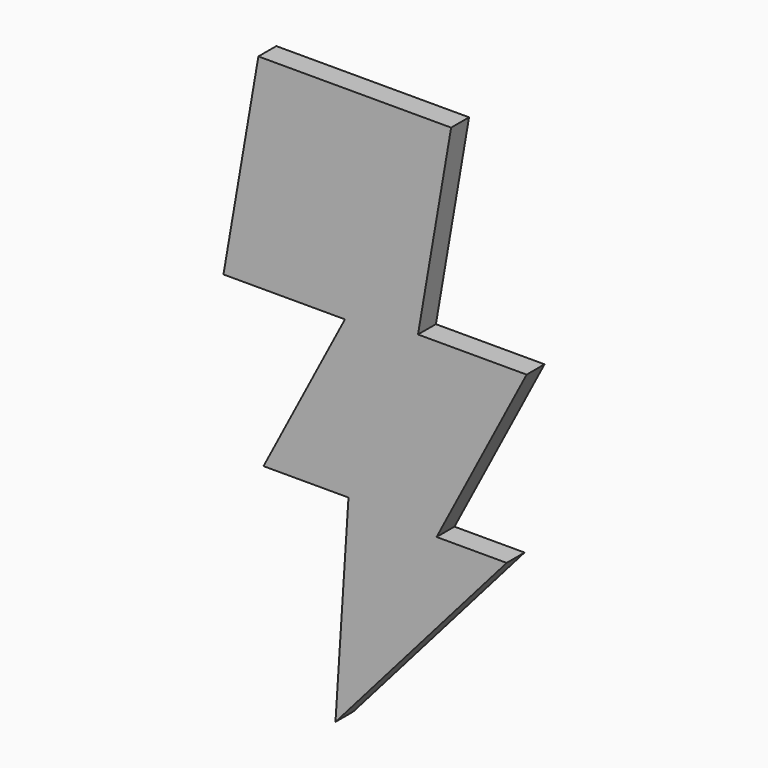
from build123d import *

# Parameters (mm, degrees)
PAD_DEPTH = 5


with BuildPart() as part:
    # Sketch → Pad (new body)
    with BuildSketch(Plane.XZ):
        Polygon((16.809578, 52.051549), (59.849419, 52.051549), (52.451943, 8.978119), (76.707435, 8.978119), (56.599094, -29.48042), (72.248703, -29.48042), (34.023357, -73.176758), (36.926517, -28.123772), (17.951936, -28.123772), (36.134954, 6.652457), (9.012691, 6.652457), align=None)
    extrude(amount=PAD_DEPTH)


solid = part.part
